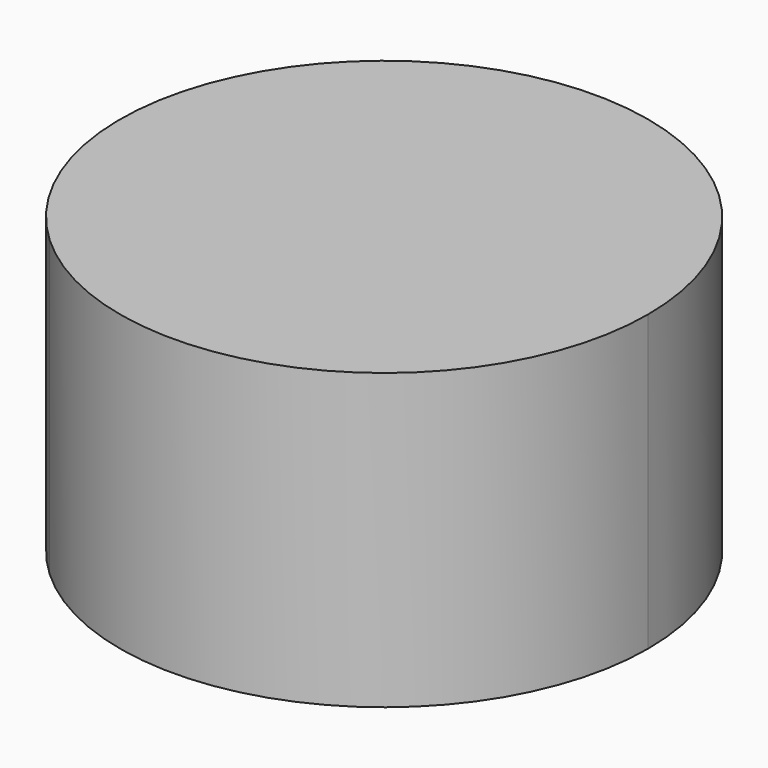
from build123d import *

# Parameters (mm, degrees)
F1_DEPTH = 25.4


with BuildPart() as f1:
    # F0 (on Top) → F1 (new body)
    with BuildSketch(Plane.XY):
        with BuildLine():
            ThreePointArc((-42.495941, 8.151331), (-17.891948, 4.007735), (-4.234901, 24.888609))
            ThreePointArc((-4.234901, 24.888609), (-23.092823, 47.337992), (-48.459944, 32.637473))
            ThreePointArc((-48.459944, 32.637473), (-28.8893, 24.434839), (-42.495941, 8.151331))
        make_face()
        with BuildLine():
            ThreePointArc((-42.495941, 8.151331), (-28.8893, 24.434839), (-48.459944, 32.637473))
            ThreePointArc((-48.459944, 32.637473), (-49.170277, 19.495073), (-42.495941, 8.151331))
        make_face()
    extrude(amount=F1_DEPTH)


solid = f1.part
